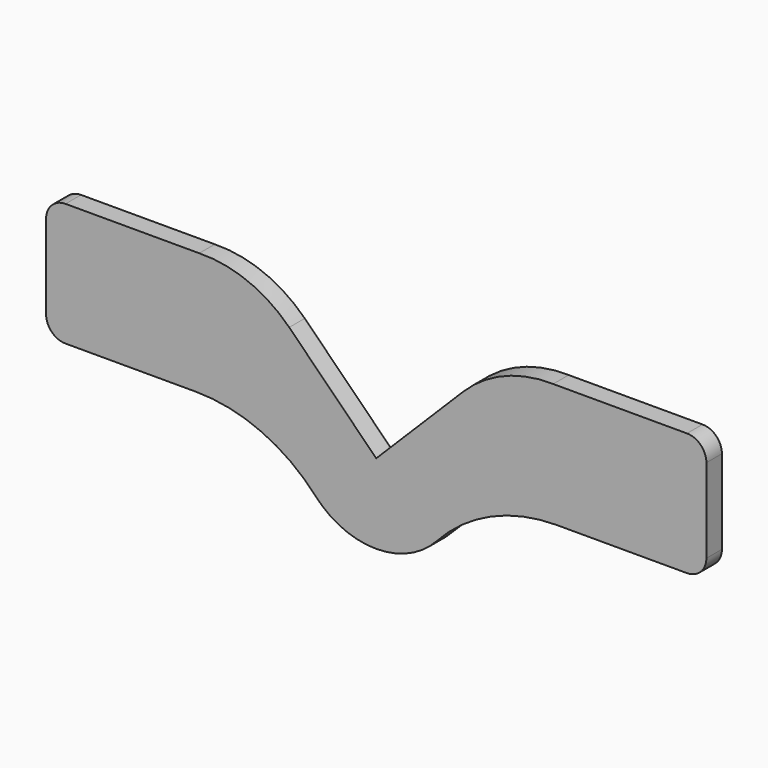
from build123d import *

# Parameters (mm, degrees)
F1_DEPTH = 3


with BuildPart() as f1:
    # F0 (on Front) → F1 (new body)
    with BuildSketch(Plane.XZ):
        with BuildLine():
            ThreePointArc((-48, -22.5), (-50.12132, -23.37868), (-51, -25.5))
            Line((-51, -25.5), (-51, -38.5))
            ThreePointArc((-51, -38.5), (-50.12132, -40.62132), (-48, -41.5))
            Line((-48, -41.5), (-27.869387, -41.5))
            ThreePointArc((-27.869387, -41.5), (-17.767422, -43.631894), (-9.388361, -49.663977))
            ThreePointArc((-9.388361, -49.663977), (0, -53.811277), (9.388361, -49.663977))
            ThreePointArc((9.388361, -49.663977), (17.767422, -43.631894), (27.869387, -41.5))
            Line((27.869387, -41.5), (0, -41.5))
            Line((0, -41.5), (-13.44061, -28.05939))
            ThreePointArc((-13.44061, -28.05939), (-19.817915, -23.853882), (-27.336115, -22.5))
            Line((-27.336115, -22.5), (-48, -22.5))
        make_face()
        with BuildLine():
            Line((13.44061, -28.05939), (0, -41.5))
            Line((0, -41.5), (27.869387, -41.5))
            Line((27.869387, -41.5), (48, -41.5))
            ThreePointArc((48, -41.5), (50.12132, -40.62132), (51, -38.5))
            Line((51, -38.5), (51, -25.5))
            ThreePointArc((51, -25.5), (50.12132, -23.37868), (48, -22.5))
            Line((48, -22.5), (27.336115, -22.5))
            ThreePointArc((27.336115, -22.5), (19.817915, -23.853882), (13.44061, -28.05939))
        make_face()
    extrude(amount=F1_DEPTH)


solid = f1.part
